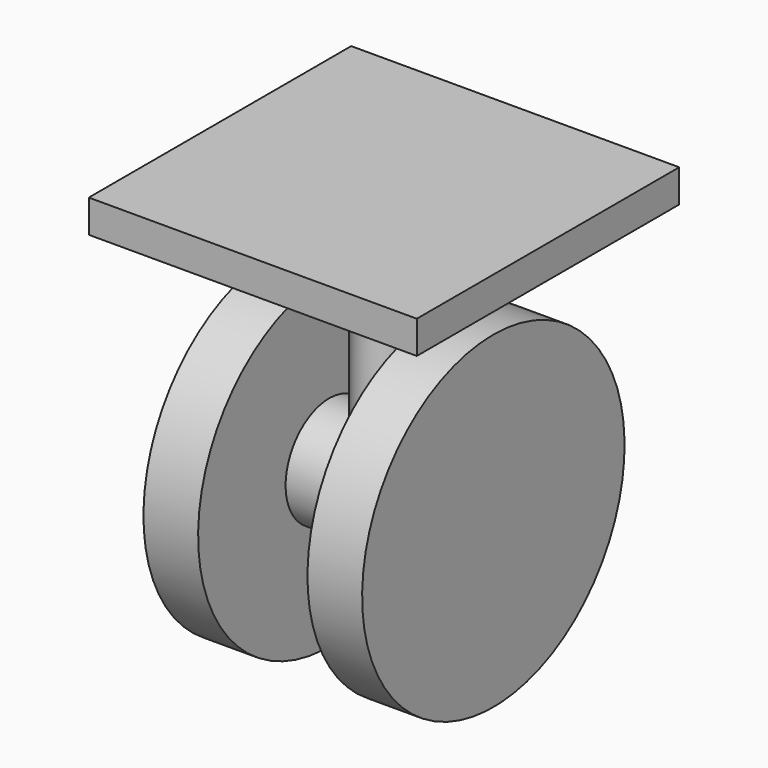
from build123d import *

# Parameters (mm, degrees)
F0_W     = 30
F0_H     = 30
F0_R     = 2.5
F1_DEPTH = 3
F2_DEPTH = 20


with BuildPart() as f1:
    # F0 (on Top) → F1 (new body)
    with BuildSketch(Plane.XY):
        Rectangle(F0_W, F0_H)
        Circle(F0_R, mode=Mode.SUBTRACT)
        Circle(F0_R)
    extrude(amount=-F1_DEPTH)

    # F0 (on Top) → F2 (join)
    with BuildSketch(Plane.XY):
        Circle(F0_R)
    extrude(amount=-F2_DEPTH)


with BuildPart() as f4:
    # F3 (on Front) → F4 (revolve)
    with BuildSketch(Plane.XZ):
        Polygon((-10, -9), (-10, -24), (10, -24), (10, -9), (5, -9), (5, -19), (-5, -19), (-5, -9), align=None)
    revolve(axis=Axis((0, 0, -24), (1, 0, 0)))


solid = Compound([f1.part, f4.part])
